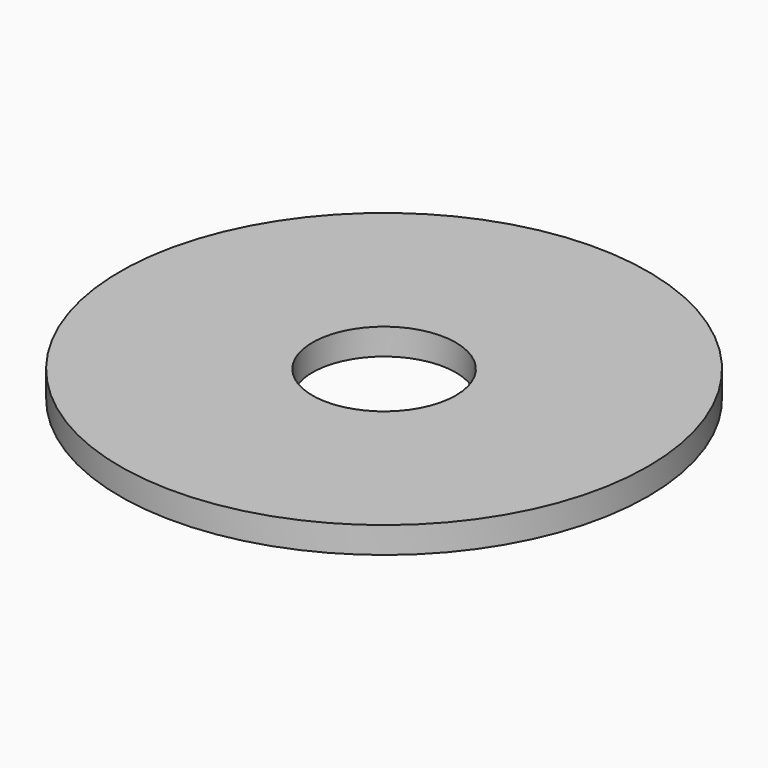
from build123d import *

# Parameters (mm, degrees)
SKETCH_R   = 16.03
SKETCH_R_2 = 4.355
PAD_DEPTH  = 1.6


with BuildPart() as part:
    # Sketch → Pad (new body)
    with BuildSketch(Plane.XY):
        Circle(SKETCH_R)
        Circle(SKETCH_R_2, mode=Mode.SUBTRACT)
    extrude(amount=PAD_DEPTH)


solid = part.part
